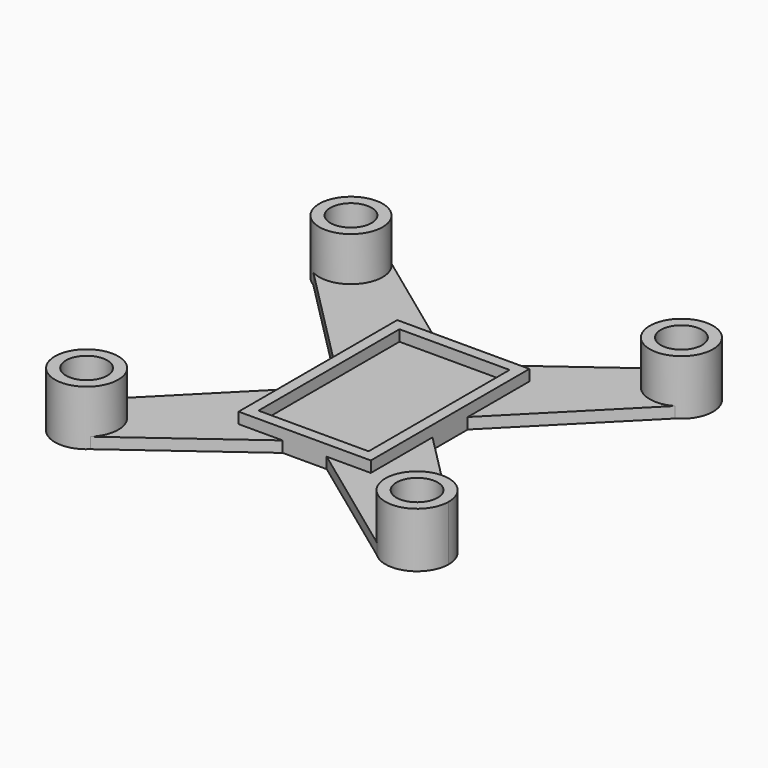
from build123d import *

# Parameters (mm, degrees)
F0_W     = 20
F0_H     = 32
F0_R     = 3.75
F1_DEPTH = 2
F2_DEPTH = 10
F3_DEPTH = 4


with BuildPart() as f1:
    # F0 (on Top) → F1 (new body)
    with BuildSketch(Plane.XY):
        Polygon((12, 4), (12, 18), (4, 18), (-4, 18), (-12, 18), (-12, 4), (-12, -4), (-12, -18), (-4, -18), (4, -18), (12, -18), (12, -4), align=None)
        Rectangle(F0_W, F0_H, mode=Mode.SUBTRACT)
        Rectangle(F0_W, F0_H)
        with BuildLine():
            Line((-12, 18), (-4, 18))
            Line((-4, 18), (-26, 34.1306779105))
            ThreePointArc((-26, 34.1306779105), (-24.7055453539, 32.2430448056), (-24.25, 30))
            ThreePointArc((-24.25, 30), (-27.1072816845, 25.0306257188), (-32.8394541729, 25))
            Line((-32.8394541729, 25), (-12, 4))
            Line((-12, 4), (-12, 18))
        make_face()
        with BuildLine():
            Line((4, 18), (12, 18))
            Line((12, 18), (12, 4))
            Line((12, 4), (32.8394541729, 25))
            ThreePointArc((32.8394541729, 25), (25.397931288, 26.552760007), (26, 34.1306779105))
            Line((26, 34.1306779105), (4, 18))
        make_face()
        with BuildLine():
            Line((32.8394541729, -25), (12, -4))
            Line((12, -4), (12, -18))
            Line((12, -18), (4, -18))
            Line((4, -18), (26, -34.1306779105))
            ThreePointArc((26, -34.1306779105), (25.397931288, -26.552760007), (32.8394541729, -25))
        make_face()
        with BuildLine():
            Line((-12, -18), (-12, -4))
            Line((-12, -4), (-32.8394541729, -25))
            ThreePointArc((-32.8394541729, -25), (-27.1072816845, -25.0306257188), (-24.25, -30))
            ThreePointArc((-24.25, -30), (-24.7055453539, -32.2430448056), (-26, -34.1306779105))
            Line((-26, -34.1306779105), (-4, -18))
            Line((-4, -18), (-12, -18))
        make_face()
        with BuildLine():
            ThreePointArc((-24.25, 30), (-24.7055453539, 32.2430448056), (-26, 34.1306779105))
            ThreePointArc((-26, 34.1306779105), (-34.602068712, 33.447239993), (-32.8394541729, 25))
            ThreePointArc((-32.8394541729, 25), (-27.1072816845, 25.0306257188), (-24.25, 30))
        make_face()
        with Locations((-30, 30)):
            Circle(F0_R, mode=Mode.SUBTRACT)
        with BuildLine():
            ThreePointArc((35.75, 30), (32.2430448056, 35.2944546461), (26, 34.1306779105))
            ThreePointArc((26, 34.1306779105), (25.397931288, 26.552760007), (32.8394541729, 25))
            ThreePointArc((32.8394541729, 25), (34.9693742812, 27.1072816845), (35.75, 30))
        make_face()
        with Locations((30, 30)):
            Circle(F0_R, mode=Mode.SUBTRACT)
        with BuildLine():
            ThreePointArc((-24.25, -30), (-27.1072816845, -25.0306257188), (-32.8394541729, -25))
            ThreePointArc((-32.8394541729, -25), (-34.602068712, -33.447239993), (-26, -34.1306779105))
            ThreePointArc((-26, -34.1306779105), (-24.7055453539, -32.2430448056), (-24.25, -30))
        make_face()
        with Locations((-30, -30)):
            Circle(F0_R, mode=Mode.SUBTRACT)
    extrude(amount=F1_DEPTH)

    # F0 (on Top) → F2 (join)
    with BuildSketch(Plane.XY):
        with BuildLine():
            ThreePointArc((-24.25, 30), (-24.7055453539, 32.2430448056), (-26, 34.1306779105))
            ThreePointArc((-26, 34.1306779105), (-34.602068712, 33.447239993), (-32.8394541729, 25))
            ThreePointArc((-32.8394541729, 25), (-27.1072816845, 25.0306257188), (-24.25, 30))
        make_face()
        with Locations((-30, 30)):
            Circle(F0_R, mode=Mode.SUBTRACT)
        with BuildLine():
            ThreePointArc((35.75, 30), (32.2430448056, 35.2944546461), (26, 34.1306779105))
            ThreePointArc((26, 34.1306779105), (25.397931288, 26.552760007), (32.8394541729, 25))
            ThreePointArc((32.8394541729, 25), (34.9693742812, 27.1072816845), (35.75, 30))
        make_face()
        with Locations((30, 30)):
            Circle(F0_R, mode=Mode.SUBTRACT)
        with BuildLine():
            ThreePointArc((35.75, -30), (34.9693742812, -27.1072816845), (32.8394541729, -25))
            ThreePointArc((32.8394541729, -25), (25.397931288, -26.552760007), (26, -34.1306779105))
            ThreePointArc((26, -34.1306779105), (32.2430448056, -35.2944546461), (35.75, -30))
        make_face()
        with Locations((30, -30)):
            Circle(F0_R, mode=Mode.SUBTRACT)
        with BuildLine():
            ThreePointArc((-24.25, -30), (-27.1072816845, -25.0306257188), (-32.8394541729, -25))
            ThreePointArc((-32.8394541729, -25), (-34.602068712, -33.447239993), (-26, -34.1306779105))
            ThreePointArc((-26, -34.1306779105), (-24.7055453539, -32.2430448056), (-24.25, -30))
        make_face()
        with Locations((-30, -30)):
            Circle(F0_R, mode=Mode.SUBTRACT)
    extrude(amount=F2_DEPTH)

    # F0 (on Top) → F3 (join)
    with BuildSketch(Plane.XY):
        Polygon((12, 4), (12, 18), (4, 18), (-4, 18), (-12, 18), (-12, 4), (-12, -4), (-12, -18), (-4, -18), (4, -18), (12, -18), (12, -4), align=None)
        Rectangle(F0_W, F0_H, mode=Mode.SUBTRACT)
    extrude(amount=F3_DEPTH)


solid = f1.part
